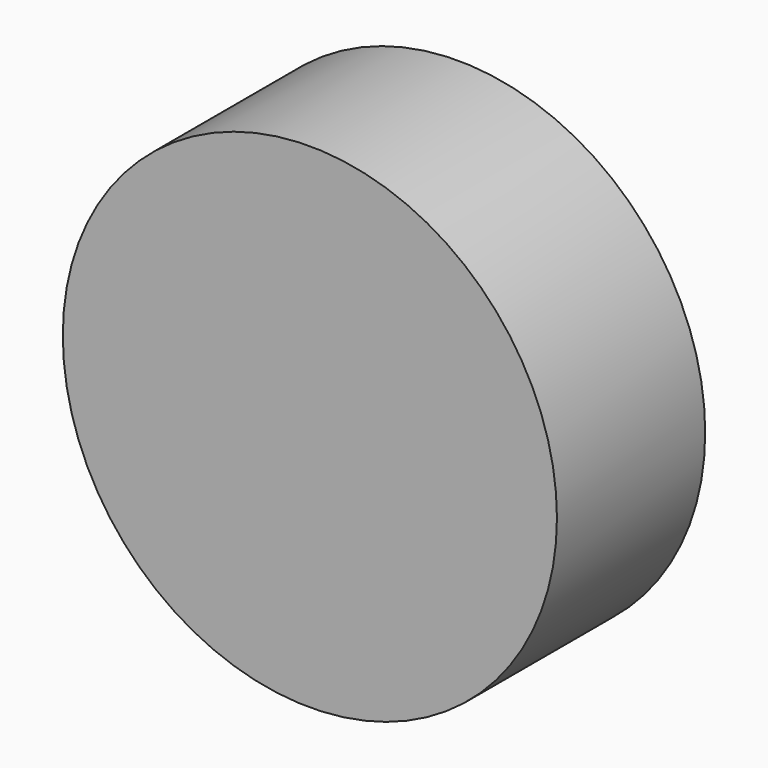
from build123d import *

# Parameters (mm, degrees)
SKETCH156_R  = 4
PAD079_DEPTH = 3


with BuildPart() as part:
    # Sketch156 → Pad079 (new body)
    with BuildSketch(Plane.XZ):
        Circle(SKETCH156_R)
    extrude(amount=PAD079_DEPTH)


with BuildPart() as part_1:
    # Body063 placement: moved
    add(part.part.moved(Location((15, 7, 22))))


solid = part_1.part
